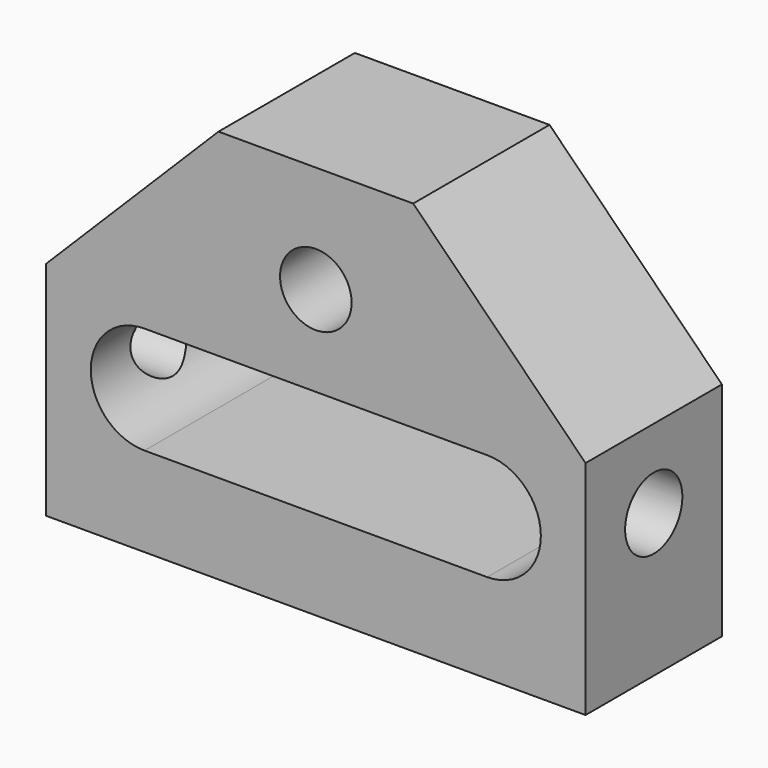
from build123d import *

# Parameters (mm, degrees)
SKETCH_R          = 4
PAD_DEPTH         = 9.525
SKETCH001_R       = 4
POCKET_DEPTH      = 30.152111
POCKET_DEPTH_BACK = 30.152111
SKETCH003_R       = 1.25
HOLE_DEPTH        = 8
HOLE_TIPS_R       = 1.25


with BuildPart() as part:
    # Sketch → Pad (new body, symmetric)
    with BuildSketch(Plane.XZ):
        Polygon((-10.880411, 28.06969), (10.880411, 28.06969), (30.151111, 8.79899), (30.151111, -16), (-30.151111, -16), (-30.151111, 8.79899), align=None)
        with Locations((0, 16.06969)):
            Circle(SKETCH_R, mode=Mode.SUBTRACT)
        with BuildLine():
            ThreePointArc((-19.151111, 6), (-25.151111, 0), (-19.151111, -6))
            Line((-19.151111, -6), (19.151111, -6))
            ThreePointArc((19.151111, -6), (25.151111, 0), (19.151111, 6))
            Line((19.151111, 6), (-19.151111, 6))
        make_face(mode=Mode.SUBTRACT)
    extrude(amount=PAD_DEPTH, both=True)

    # Sketch001 → Pocket (cut, two sides)
    with BuildSketch(Plane.YZ) as pocket_sk:
        Circle(SKETCH001_R)
    extrude(amount=-POCKET_DEPTH, mode=Mode.SUBTRACT)
    extrude(pocket_sk.sketch, amount=POCKET_DEPTH_BACK, mode=Mode.SUBTRACT)

    # Sketch003 → Hole (cut)
    with BuildSketch(Plane.XY.offset(-16)):
        with Locations((-17.5, 5)):
            Circle(SKETCH003_R)
        with Locations((-17.5, -5)):
            Circle(SKETCH003_R)
        with Locations((17.5, -5)):
            Circle(SKETCH003_R)
        with Locations((17.5, 5)):
            Circle(SKETCH003_R)
    extrude(amount=HOLE_DEPTH, mode=Mode.SUBTRACT)

    # Hole tips → Hole tip 1 section 0
    with BuildSketch(Plane.XY.offset(-8), mode=Mode.PRIVATE) as hole_tip_1_s0:
        with Locations((-17.5, 5)):
            Circle(HOLE_TIPS_R)
    loft([hole_tip_1_s0.sketch, Vertex(-17.5, 5, -7.248924)], mode=Mode.SUBTRACT)

    # Hole tips → Hole tip 2 section 0
    with BuildSketch(Plane.XY.offset(-8), mode=Mode.PRIVATE) as hole_tip_2_s0:
        with Locations((-17.5, -5)):
            Circle(HOLE_TIPS_R)
    loft([hole_tip_2_s0.sketch, Vertex(-17.5, -5, -7.248924)], mode=Mode.SUBTRACT)

    # Hole tips → Hole tip 3 section 0
    with BuildSketch(Plane.XY.offset(-8), mode=Mode.PRIVATE) as hole_tip_3_s0:
        with Locations((17.5, -5)):
            Circle(HOLE_TIPS_R)
    loft([hole_tip_3_s0.sketch, Vertex(17.5, -5, -7.248924)], mode=Mode.SUBTRACT)

    # Hole tips → Hole tip 4 section 0
    with BuildSketch(Plane.XY.offset(-8), mode=Mode.PRIVATE) as hole_tip_4_s0:
        with Locations((17.5, 5)):
            Circle(HOLE_TIPS_R)
    loft([hole_tip_4_s0.sketch, Vertex(17.5, 5, -7.248924)], mode=Mode.SUBTRACT)


solid = part.part
